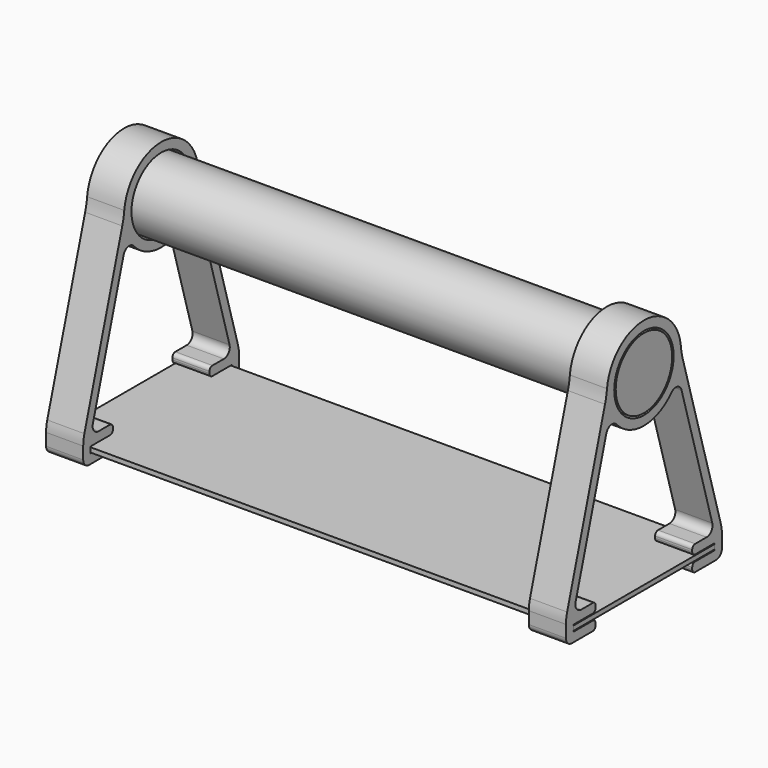
from build123d import *

# Parameters (mm, degrees)
F0_W     = 355.6
F0_H     = 120.65
F1_DEPTH = 3.175
F2_R     = 25.4
F2_W     = 19.05
F2_H     = 6.35
F3_DEPTH = 25.4
F4_R     = 2.54
F5_R     = 5.08
F6_R     = 25.4
F7_R     = 50.8
F8_R     = 24.13
F9_DEPTH = 355.6


with BuildPart() as f1:
    # F0 (on Top) → F1 (new body)
    with BuildSketch(Plane.XY):
        with Locations((177.8, -60.325)):
            Rectangle(F0_W, F0_H)
    extrude(amount=F1_DEPTH)


with BuildPart() as f3:
    # F2 (on face) → F3 (new body)
    with BuildSketch(Plane(origin=(0, 0, 0), x_dir=(0, -1, 0), z_dir=(-1, 0, 0))):
        with BuildLine():
            Line((0, 10.0965), (31.239505, 118.014789))
            ThreePointArc((31.239505, 118.014789), (29.248265, 124.242731), (28.575, 130.7465))
            Line((28.575, 130.7465), (-6.35, 10.0965))
            Line((-6.35, 10.0965), (0, 10.0965))
        make_face()
        with BuildLine():
            ThreePointArc((31.239505, 118.014789), (60.325, 98.9965), (89.410495, 118.014789))
            ThreePointArc((89.410495, 118.014789), (91.401735, 124.242731), (92.075, 130.7465))
            ThreePointArc((92.075, 130.7465), (60.325, 162.4965), (28.575, 130.7465))
            ThreePointArc((28.575, 130.7465), (29.248265, 124.242731), (31.239505, 118.014789))
        make_face()
        with Locations((60.325, 130.7465)):
            Circle(F2_R, mode=Mode.SUBTRACT)
        with BuildLine():
            Line((89.410495, 118.014789), (120.65, 10.0965))
            Line((120.65, 10.0965), (127, 10.0965))
            Line((127, 10.0965), (92.075, 130.7465))
            ThreePointArc((92.075, 130.7465), (91.401735, 124.242731), (89.410495, 118.014789))
        make_face()
        Polygon((120.65, 10.0965), (120.65, 3.7465), (120.65, 3.175), (120.65, 0), (120.65, -0.5715), (127, -0.5715), (127, 10.0965), align=None)
        with Locations((111.125, 6.9215)):
            Rectangle(F2_W, F2_H)
        Polygon((127, -0.5715), (120.65, -0.5715), (101.6, -0.5715), (101.6, -6.9215), (127, -6.9215), align=None)
        with Locations((9.525, 6.9215)):
            Rectangle(F2_W, F2_H)
        Polygon((0, 3.175), (0, 3.7465), (0, 10.0965), (-6.35, 10.0965), (-6.35, -0.5715), (0, -0.5715), (0, 0), align=None)
        Polygon((19.05, -6.9215), (19.05, -0.5715), (0, -0.5715), (-6.35, -0.5715), (-6.35, -6.9215), align=None)
    extrude(amount=-F3_DEPTH)

    # F4
    f4_edges = [f3.edges().sort_by_distance(p)[0] for p in [
        (12.7, -19.05, 3.7465),
        (12.7, -19.05, 10.0965),
        (12.7, -19.05, -0.5715),
        (12.7, -19.05, -6.9215),
        (12.7, -101.6, 10.0965),
        (12.7, -101.6, 3.7465),
        (12.7, -101.6, -6.9215),
        (12.7, -101.6, -0.5715),
    ]]
    fillet(f4_edges, radius=F4_R)

    # F5
    f5_edges = [f3.edges().sort_by_distance(p)[0] for p in [
        (12.7, 0, 10.0965),
        (12.7, -120.65, 10.0965),
        (12.7, 6.35, -6.9215),
        (12.7, -127, -6.9215),
        (12.7, -31.239505, 118.014789),
        (12.7, -89.410495, 118.014789),
    ]]
    fillet(f5_edges, radius=F5_R)

    # F6
    f6_edges = [f3.edges().sort_by_distance(p)[0] for p in [
        (12.7, 6.35, 10.0965),
        (12.7, -127, 10.0965),
    ]]
    fillet(f6_edges, radius=F6_R)

    # F7
    f7_edges = [f3.edges().sort_by_distance(p)[0] for p in [
        (12.7, -28.575, 130.7465),
        (12.7, -92.075, 130.7465),
    ]]
    fillet(f7_edges, radius=F7_R)


with BuildPart() as f9:
    # F8 (on face) → F9 (new body)
    with BuildSketch(Plane(origin=(0, 0, 0), x_dir=(0, -1, 0), z_dir=(-1, 0, 0))):
        with Locations((60.325, 130.7465)):
            Circle(F8_R)
    extrude(amount=-F9_DEPTH)


with BuildPart() as f10_1:
    # F10: copy of F3
    add(f3.part.moved(Location((330.2, 0, 0))))


solid = Compound([f1.part, f3.part, f9.part, f10_1.part])
